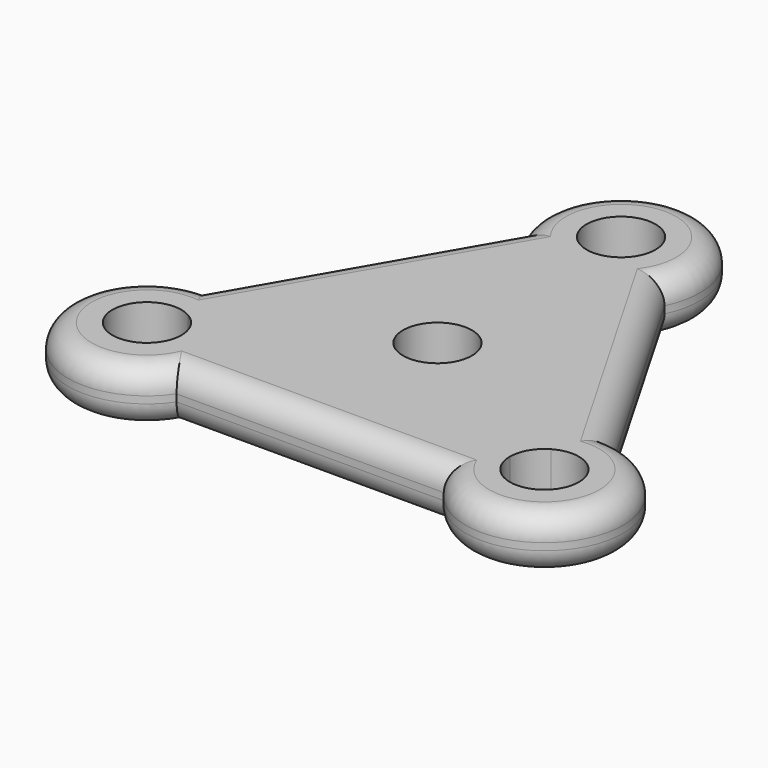
from build123d import *

# Parameters (mm, degrees)
F0_R     = 7.412119
F1_DEPTH = 11.684
F2_R     = 5.08


with BuildPart() as f1:
    # F0 (on Top) → F1 (new body)
    with BuildSketch(Plane.XY):
        with BuildLine():
            Line((-15.254229, 41.982675), (-43.985178, -7.780788))
            ThreePointArc((-43.985178, -7.780788), (-57.413651, -33.147787), (-28.730949, -34.201887))
            Line((-28.730949, -34.201887), (28.730949, -34.201887))
            ThreePointArc((28.730949, -34.201887), (57.413651, -33.147787), (43.985178, -7.780788))
            Line((43.985178, -7.780788), (15.254229, 41.982675))
            ThreePointArc((15.254229, 41.982675), (0, 66.295574), (-15.254229, 41.982675))
        make_face()
        with BuildLine():
            ThreePointArc((-35.324822, -24.676887), (-49.164759, -28.385287), (-39.033222, -18.25375))
            Line((-39.033222, -18.25375), (-3.7084, 42.930637))
            ThreePointArc((-3.7084, 42.930637), (-3.7084, 55.776911), (7.4168, 49.353774))
            ThreePointArc((7.4168, 49.353774), (6.423137, 45.645374), (3.7084, 42.930637))
            Line((3.7084, 42.930637), (39.033222, -18.25375))
            ThreePointArc((39.033222, -18.25375), (46.450022, -18.25375), (50.158422, -24.676887))
            ThreePointArc((50.158422, -24.676887), (42.741622, -32.093687), (35.324822, -24.676887))
            Line((35.324822, -24.676887), (-35.324822, -24.676887))
        make_face(mode=Mode.SUBTRACT)
        with BuildLine():
            Line((-3.7084, 42.930637), (-39.033222, -18.25375))
            ThreePointArc((-39.033222, -18.25375), (-36.318485, -20.968487), (-35.324822, -24.676887))
            Line((-35.324822, -24.676887), (35.324822, -24.676887))
            ThreePointArc((35.324822, -24.676887), (36.318485, -20.968487), (39.033222, -18.25375))
            Line((39.033222, -18.25375), (3.7084, 42.930637))
            ThreePointArc((3.7084, 42.930637), (0, 41.936974), (-3.7084, 42.930637))
        make_face()
        Circle(F0_R, mode=Mode.SUBTRACT)
    extrude(amount=F1_DEPTH)

    # F2
    f2_edges = [f1.edges().sort_by_distance(p)[0] for p in [
        (0, -34.201887, 0),
        (0, -34.201887, 11.684),
        (57.413651, -33.147787, 11.684),
        (-57.413651, -33.147787, 11.684),
        (-29.619703, 17.100944, 11.684),
        (0, 66.295574, 11.684),
        (29.619703, 17.100944, 0),
        (29.619703, 17.100944, 11.684),
        (57.413651, -33.147787, 0),
        (-57.413651, -33.147787, 0),
        (0, 66.295574, 0),
        (-29.619703, 17.100944, 0),
    ]]
    fillet(f2_edges, radius=F2_R)


solid = f1.part
